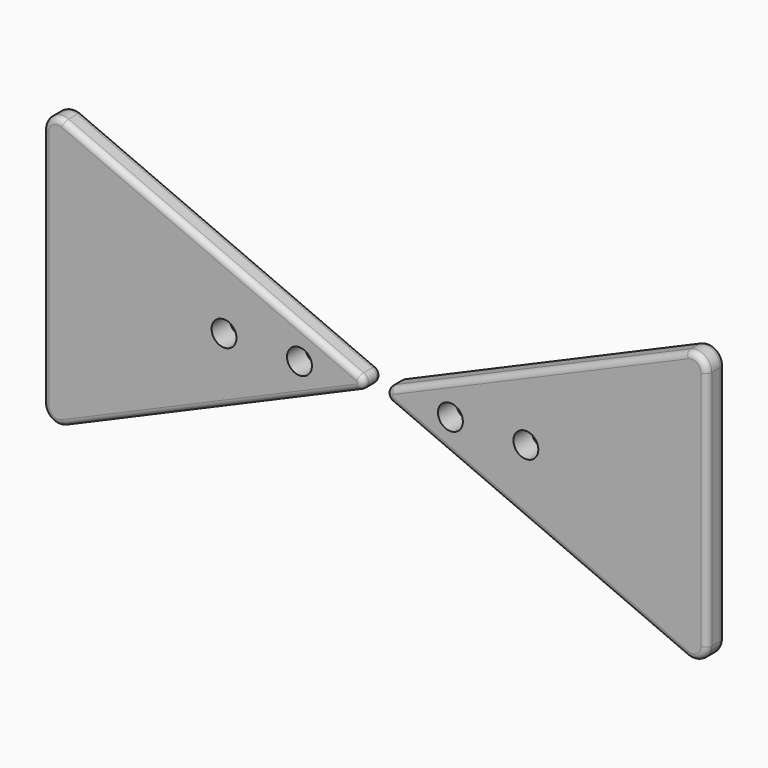
from build123d import *

# Parameters (mm, degrees)
F0_R     = 1.65
F1_DEPTH = 3
F2_R     = 0.8


with BuildPart() as f1:
    # F0 (on Front) → F1 (new body)
    with BuildSketch(Plane.XZ):
        with BuildLine():
            ThreePointArc((-2.126039, -0.918062), (-1.522475, 0), (-2.126039, 0.918062))
            Line((-2.126039, 0.918062), (-41.207128, 17.793987))
            ThreePointArc((-41.207128, 17.793987), (-43.098694, 17.629051), (-44, 15.957862))
            Line((-44, 15.957862), (-44, -15.957862))
            ThreePointArc((-44, -15.957862), (-43.098694, -17.629051), (-41.207128, -17.793987))
            Line((-41.207128, -17.793987), (-2.126039, -0.918062))
        make_face()
        with Locations((-20, 0)):
            Circle(F0_R, mode=Mode.SUBTRACT)
        with Locations((-10, 0)):
            Circle(F0_R, mode=Mode.SUBTRACT)
        with BuildLine():
            Line((41.207128, 17.793987), (2.126039, 0.918062))
            ThreePointArc((2.126039, 0.918062), (1.522475, 0), (2.126039, -0.918062))
            Line((2.126039, -0.918062), (41.207128, -17.793987))
            ThreePointArc((41.207128, -17.793987), (43.098694, -17.629051), (44, -15.957862))
            Line((44, -15.957862), (44, 15.957862))
            ThreePointArc((44, 15.957862), (43.098694, 17.629051), (41.207128, 17.793987))
        make_face()
        with Locations((10, 0)):
            Circle(F0_R, mode=Mode.SUBTRACT)
        with Locations((20, 0)):
            Circle(F0_R, mode=Mode.SUBTRACT)
    extrude(amount=F1_DEPTH)

    # F2
    f2_edges = [f1.edges().sort_by_distance(p)[0] for p in [
        (-44, -3, 0),
        (-21.666584, 0, 9.356025),
        (21.666584, 0, 9.356025),
        (21.666584, -3, 9.356025),
    ]]
    fillet(f2_edges, radius=F2_R)


solid = f1.part
